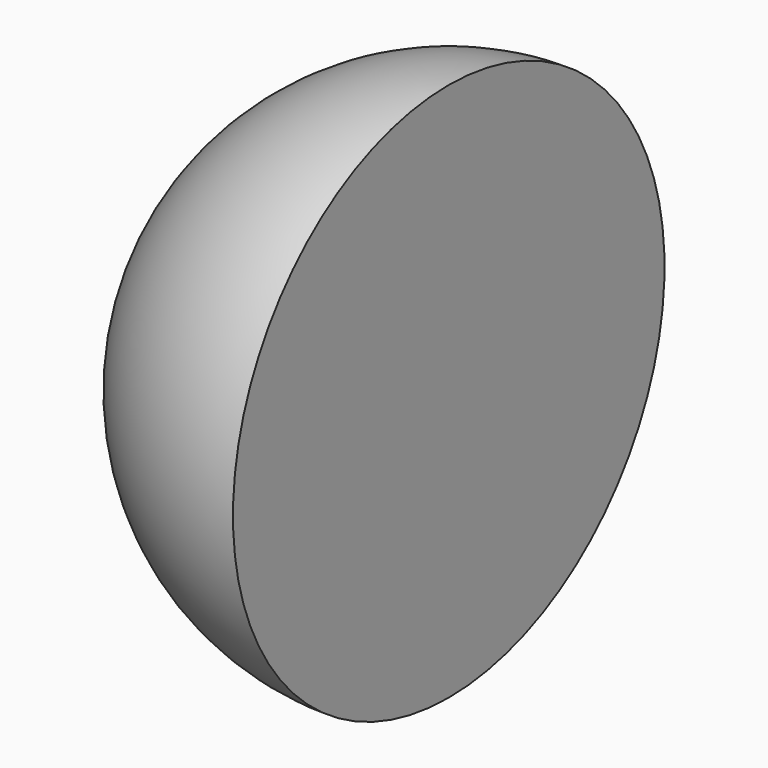
from build123d import *

# Parameters (mm, degrees)
F1_ANGLE_BACK = 90
F1_ANGLE      = 180


with BuildPart() as f1:
    # F0 (on Front) → F1 (revolve)
    with BuildSketch(Plane.XZ, mode=Mode.PRIVATE) as f1_sk:
        with BuildLine():
            Line((0, 8.216600339), (0, 9.9673108802))
            ThreePointArc((0, 9.9673108802), (-0.8753552706, 9.0919556096), (0, 8.216600339))
        make_face()
    revolve(f1_sk.sketch.rotate(Axis((0, 0, 9.0919556096), (0, 0, -1)), -F1_ANGLE_BACK), axis=Axis((0, 0, 9.0919556096), (0, 0, -1)), revolution_arc=F1_ANGLE)


solid = f1.part
